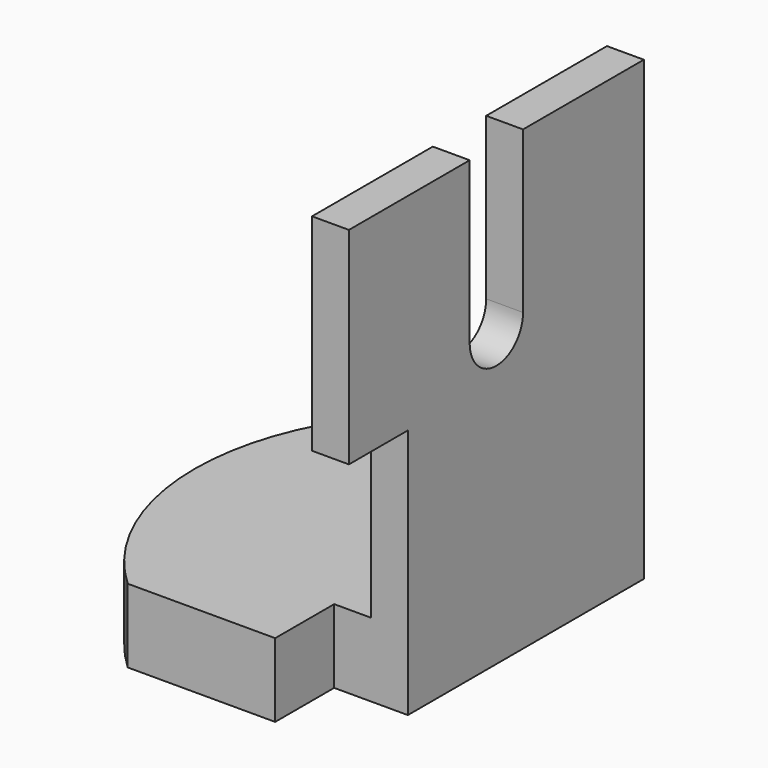
from build123d import *

# Parameters (mm, degrees)
F1_DEPTH = 12.7
F3_DEPTH = 6.35


with BuildPart() as f1:
    # F0 (on Top) → F1 (new body)
    with BuildSketch(Plane.XY):
        with BuildLine():
            Line((-12.7, 0), (0, 0))
            Line((0, 0), (0, 50.8))
            Line((0, 50.8), (-38.1, 50.8))
            ThreePointArc((-38.1, 50.8), (-51.978712, 19.05), (-38.1, -12.7))
            Line((-38.1, -12.7), (-12.7, -12.7))
            Line((-12.7, -12.7), (-12.7, 0))
        make_face()
    extrude(amount=F1_DEPTH)

    # F2 (on face) → F3 (join)
    with BuildSketch(Plane.YZ):
        with BuildLine():
            Line((0, 43.18), (0, 12.7))
            Line((0, 12.7), (50.8, 12.7))
            Line((50.8, 12.7), (50.8, 78.74))
            Line((50.8, 78.74), (24.7976, 78.74))
            Line((24.7976, 78.74), (24.7976, 50.976068))
            ThreePointArc((24.7976, 50.976068), (19.05, 45.228468), (13.3024, 50.976068))
            Line((13.3024, 50.976068), (13.3024, 78.74))
            Line((13.3024, 78.74), (-12.7, 78.74))
            Line((-12.7, 78.74), (-12.7, 43.18))
            Line((-12.7, 43.18), (0, 43.18))
        make_face()
    extrude(amount=-F3_DEPTH)


solid = f1.part
